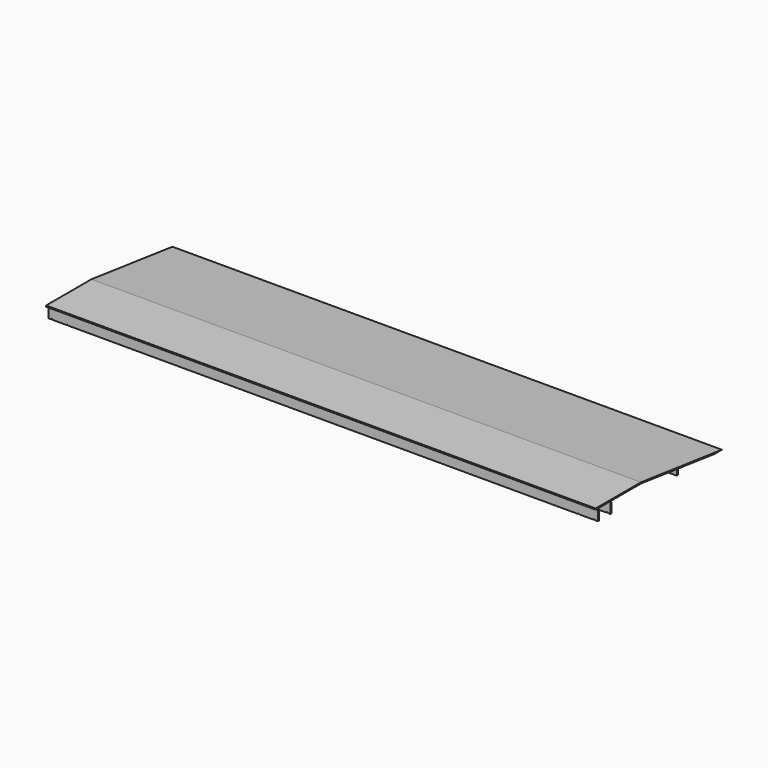
from build123d import *

# Parameters (mm, degrees)
F1_DEPTH = 970
F2_W     = 35
F2_H     = 30
F3_DEPTH = 2.3
F4_W     = 2.4
F4_H     = 1
F5_DEPTH = 30.001
F7_DEPTH = 970


with BuildPart() as f1:
    # F0 (on Right) → F1 (new body)
    with BuildSketch(Plane.YZ):
        Polygon((0, 20), (0, 0), (2.3, 0), (2.3, 17.7), (27.7, 17.7), (27.7, 0), (30, 0), (30, 20), align=None)
    extrude(amount=F1_DEPTH)

    # F2 (on face) → F3 (cut)
    with BuildSketch(Plane.XY.offset(20)):
        with Locations((17.5, 15)):
            Rectangle(F2_W, F2_H)
        with Locations((952.5, 15)):
            Rectangle(F2_W, F2_H)
    extrude(amount=-F3_DEPTH, mode=Mode.SUBTRACT)

    # F4 (on face) → F5 (cut, through all)
    with BuildSketch(Plane.XZ):
        with Locations((33.8, 0.5)):
            Rectangle(F4_W, F4_H)
        with Locations((6.2, 0.5)):
            Rectangle(F4_W, F4_H)
        with Locations((936.2, 0.5)):
            Rectangle(F4_W, F4_H)
        with Locations((963.8, 0.5)):
            Rectangle(F4_W, F4_H)
    extrude(amount=-F5_DEPTH, mode=Mode.SUBTRACT)


with BuildPart() as f7:
    # F6 (on Right) → F7 (new body)
    with BuildSketch(Plane.YZ):
        Polygon((-5, 20), (95, 20), (174.204771, 10.246291), (176.204771, 10), (257.409543, 0), (273.650497, 0), (95, 22), (-5, 22), align=None)
        Polygon((176.204771, 10), (174.204771, 10.246291), (174.204771, 0), (176.204771, 0), align=None)
    extrude(amount=F7_DEPTH)


solid = Compound([f1.part, f7.part])
